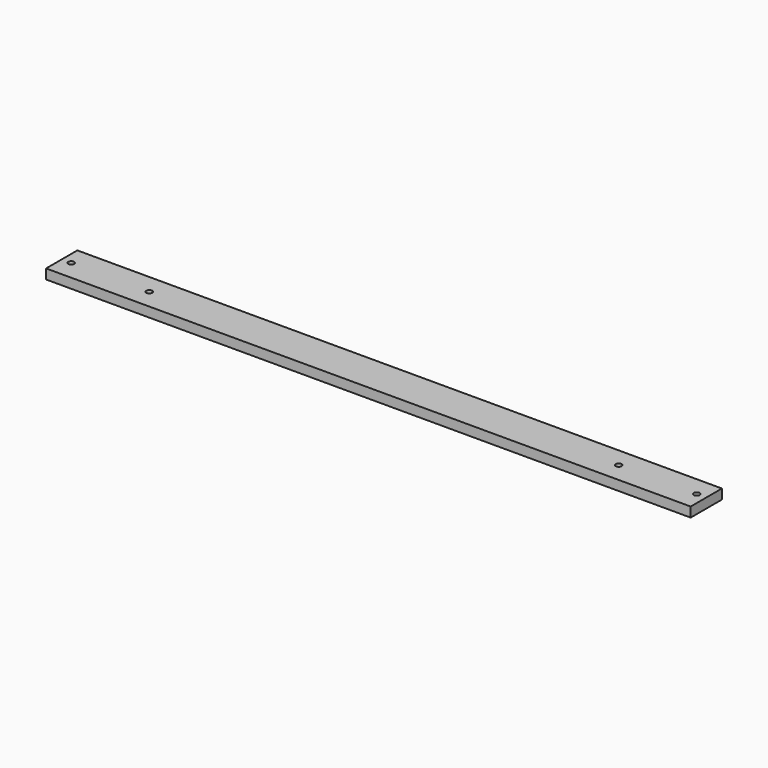
from build123d import *

# Parameters (mm, degrees)
F0_W     = 330
F0_H     = 20
F1_DEPTH = 5
F2_D     = 3
F3_D     = 3


with BuildPart() as f1:
    # F0 (on Top) → F1 (new body)
    with BuildSketch(Plane.XY):
        Rectangle(F0_W, F0_H)
    extrude(amount=-F1_DEPTH)

    # F2 (through all)
    with Locations(Plane.XY):
        with Locations((-160.145, 0), (160.145, 0)):
            Hole(F2_D / 2)

    # F3 (through all)
    with Locations(Plane.XY):
        with Locations((-120.145, 0), (120.145, 0)):
            Hole(F3_D / 2)


solid = f1.part
